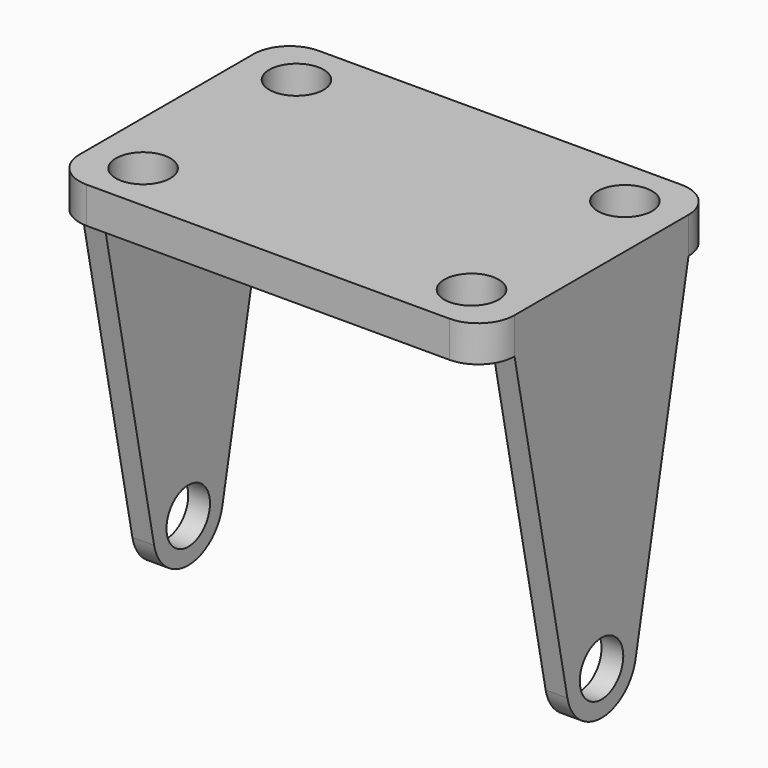
from build123d import *

# Parameters (mm, degrees)
F0_W     = 60
F0_H     = 40
F0_R     = 3.75
F1_DEPTH = 5
F2_R     = 5
F3_R     = 3.75
F4_DEPTH = 3


with BuildPart() as f1:
    # F0 (on Top) → F1 (new body)
    with BuildSketch(Plane.XY):
        Rectangle(F0_W, F0_H)
        with Locations((-22.647429, -13.222116)):
            Circle(F0_R, mode=Mode.SUBTRACT)
        with Locations((22.647429, -13.222116)):
            Circle(F0_R, mode=Mode.SUBTRACT)
        with Locations((-22.647429, 13.222116)):
            Circle(F0_R, mode=Mode.SUBTRACT)
        with Locations((22.647429, 13.222116)):
            Circle(F0_R, mode=Mode.SUBTRACT)
    extrude(amount=F1_DEPTH)

    # F2
    f2_edges = [f1.edges().sort_by_distance(p)[0] for p in [
        (-30, -20, 2.5),
        (30, -20, 2.5),
        (30, 20, 2.5),
        (-30, 20, 2.5),
    ]]
    fillet(f2_edges, radius=F2_R)

    # F3 (on face) → F4 (join)
    with BuildSketch(Plane.YZ.offset(30)):
        with BuildLine():
            Line((15, 0), (-15, 0))
            Line((-15, 0), (-5.881443, -45.186856))
            ThreePointArc((-5.881443, -45.186856), (0, -50), (5.881443, -45.186856))
            Line((5.881443, -45.186856), (15, 0))
        make_face()
        with Locations((0, -44)):
            Circle(F3_R, mode=Mode.SUBTRACT)
    extrude(amount=-F4_DEPTH)

    # F5: F1 across plane


with BuildPart() as f1_1:
    add(f1.part)
    add(f1.part.mirror(Plane.YZ))


solid = f1_1.part
